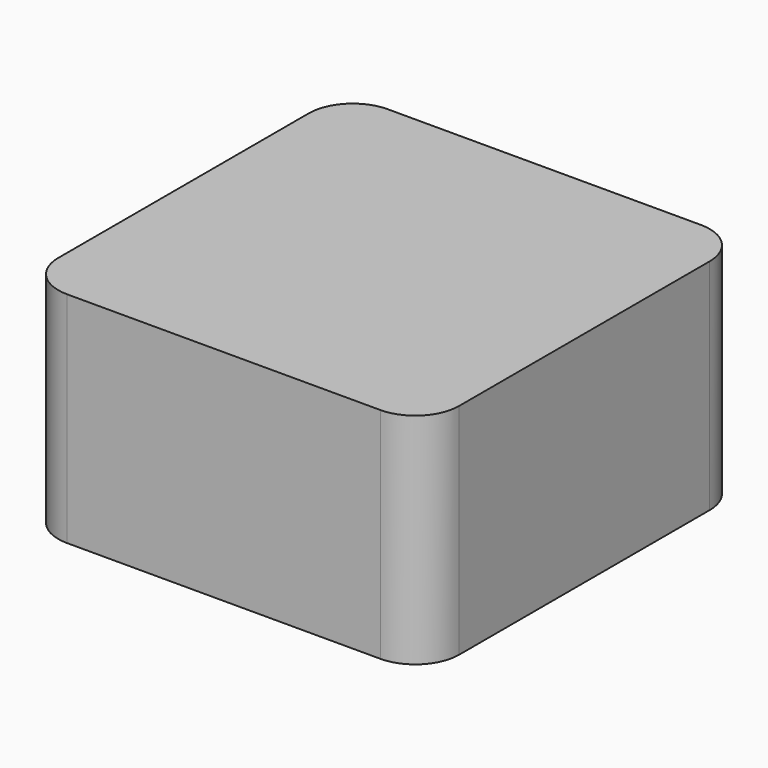
from build123d import *

# Parameters (mm, degrees)
SKETCH_W  = 9.15
SKETCH_H  = 9.15
PAD_DEPTH = 5
FILLET_R  = 1


with BuildPart() as part:
    # Sketch → Pad (new body)
    with BuildSketch(Plane.XY):
        Rectangle(SKETCH_W, SKETCH_H)
    extrude(amount=PAD_DEPTH)

    # Fillet
    fillet_edges = [part.edges().sort_by_distance(p)[0] for p in [
        (4.575, -4.575, 2.5),
        (4.575, 4.575, 2.5),
        (-4.575, -4.575, 2.5),
        (-4.575, 4.575, 2.5),
    ]]
    fillet(fillet_edges, radius=FILLET_R)


solid = part.part
